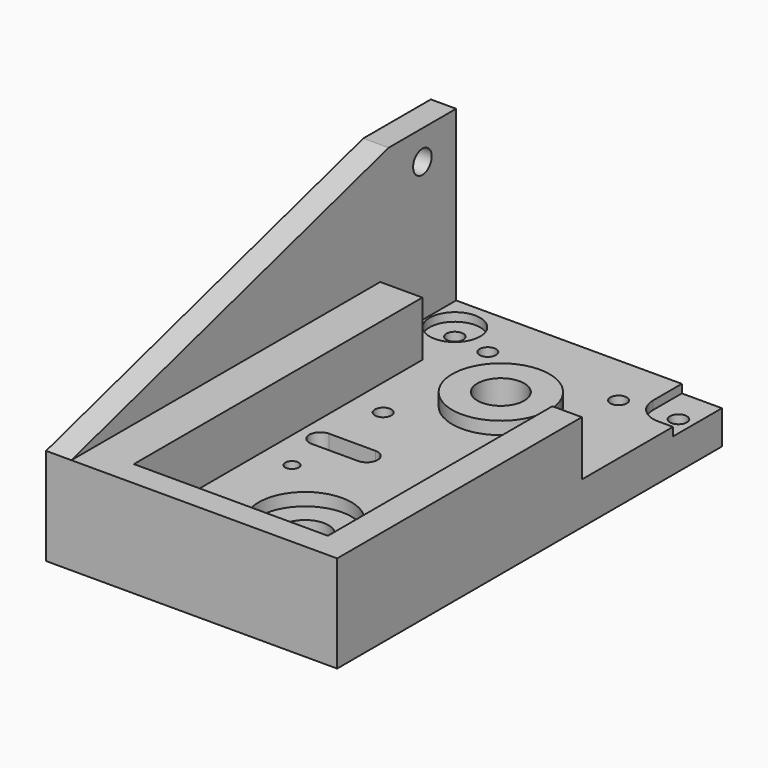
from build123d import *

# Parameters (mm, degrees)
SKETCH_W        = 63
SKETCH_H        = 114
SKETCH_R        = 1.95
SKETCH_R_2      = 5.525
SKETCH_R_3      = 1.6
PAD_DEPTH       = 10
SKETCH004_R     = 11.525
PAD001_DEPTH    = 3
SKETCH003_R     = 5.55
POCKET_DEPTH    = 13.001
SKETCH006_R     = 11
POCKET001_DEPTH = 3
SKETCH007_R     = 3.5
POCKET002_DEPTH = 0.01
POCKET003_DEPTH = 10.001
SKETCH009_R     = 1.7
POCKET004_DEPTH = 12
PAD002_DEPTH    = 13
PAD003_DEPTH    = 6
SKETCH023_R     = 2.75
POCKET005_DEPTH = 9
SKETCH025_R     = 2
POCKET006_DEPTH = 16
SKETCH026_R     = 6
POCKET007_DEPTH = 2


with BuildPart() as part:
    # Sketch → Pad (new body)
    with BuildSketch(Plane.XY):
        with Locations((-1.5, -29)):
            Rectangle(SKETCH_W, SKETCH_H)
        with Locations((-15.5, 15.5)):
            Circle(SKETCH_R, mode=Mode.SUBTRACT)
        with Locations((15.5, 15.5)):
            Circle(SKETCH_R, mode=Mode.SUBTRACT)
        with Locations((-15.5, -15.5)):
            Circle(SKETCH_R, mode=Mode.SUBTRACT)
        with Locations((15.5, -15.5)):
            Circle(SKETCH_R, mode=Mode.SUBTRACT)
        with Locations((0, -58)):
            Circle(SKETCH_R_2, mode=Mode.SUBTRACT)
        with Locations((-15.5, -42.5)):
            Circle(SKETCH_R_3, mode=Mode.SUBTRACT)
        with Locations((15.5, -42.5)):
            Circle(SKETCH_R_3, mode=Mode.SUBTRACT)
        with Locations((-15.5, -73.5)):
            Circle(SKETCH_R_3, mode=Mode.SUBTRACT)
        with Locations((15.5, -73.5)):
            Circle(SKETCH_R_3, mode=Mode.SUBTRACT)
    extrude(amount=PAD_DEPTH)

    # Sketch004 (on Face15 of Pad) → Pad001 (join)
    with BuildSketch(Plane.XY.offset(10)):
        Circle(SKETCH004_R)
    extrude(amount=PAD001_DEPTH)

    # Sketch003 (on Face17 of Pad001) → Pocket (cut, through all)
    with BuildSketch(Plane.XY.offset(13)):
        Circle(SKETCH003_R)
    extrude(amount=-POCKET_DEPTH, mode=Mode.SUBTRACT)

    # Sketch006 (on Face5 of Pocket) → Pocket001 (cut)
    with BuildSketch(Plane.XY.offset(10)):
        with Locations((0, -58)):
            Circle(SKETCH006_R)
    extrude(amount=-POCKET001_DEPTH, mode=Mode.SUBTRACT)

    # Sketch007 (on Face4 of Pocket001) → Pocket002 (cut)
    with BuildSketch(Plane(origin=(0, 0, 0), x_dir=(1, 0, 0), z_dir=(0, 0, -1))):
        with Locations((-15.5, 73.5)):
            Circle(SKETCH007_R)
        with Locations((15.5, 73.5)):
            Circle(SKETCH007_R)
        with Locations((15.5, 42.5)):
            Circle(SKETCH007_R)
        with Locations((-15.5, 42.5)):
            Circle(SKETCH007_R)
    extrude(amount=-POCKET002_DEPTH, mode=Mode.SUBTRACT)

    # Sketch008 (on Face5 of Pocket002) → Pocket003 (cut, through all)
    with BuildSketch(Plane.XY.offset(10)):
        with BuildLine():
            ThreePointArc((-18, -28.4), (-20.6, -31), (-18, -33.6))
            Line((-18, -33.6), (-7, -33.6))
            ThreePointArc((-7, -33.6), (-4.4, -31), (-7, -28.4))
            Line((-18, -28.4), (-7, -28.4))
        make_face()
    extrude(amount=-POCKET003_DEPTH, mode=Mode.SUBTRACT)

    # Sketch009 (on Face2 of Pocket003) → Pocket004 (cut)
    with BuildSketch(Plane(origin=(-33, 0, 0), x_dir=(0, -1, 0), z_dir=(-1, 0, 0))):
        with Locations((31, 5)):
            Circle(SKETCH009_R)
    extrude(amount=-POCKET004_DEPTH, mode=Mode.SUBTRACT)

    # Sketch014 (on Face5 of Pocket004) → Pad002 (join)
    with BuildSketch(Plane.XY.offset(10)):
        Polygon((-33, 5.5), (-23, 5.5), (-23, -80), (23, -80), (23, -13.5), (30, -13.5), (30, -86), (-33, -86), align=None)
    extrude(amount=PAD002_DEPTH)

    # Sketch022 (on Face2 of Pad002) → Pad003 (join)
    with BuildSketch(Plane(origin=(-33, 0, 0), x_dir=(0, -1, 0), z_dir=(-1, 0, 0))):
        Polygon((-28, 0), (-28, 50), (-8, 50), (86, 23), (86, 0), align=None)
    extrude(amount=PAD003_DEPTH)

    # Sketch023 (on Face9 of Pad003) → Pocket005 (cut)
    with BuildSketch(Plane(origin=(-39, 0, 0), x_dir=(0, -1, 0), z_dir=(-1, 0, 0))):
        with Locations((-18, 43)):
            Circle(SKETCH023_R)
    extrude(amount=-POCKET005_DEPTH, mode=Mode.SUBTRACT)

    # Sketch025 (on Face4 of Pocket005) → Pocket006 (cut)
    with BuildSketch(Plane(origin=(0, 0, 0), x_dir=(1, 0, 0), z_dir=(0, 0, -1))):
        with Locations((26.5, -19.5)):
            Circle(SKETCH025_R)
        with Locations((-26.5, -19.5)):
            Circle(SKETCH025_R)
    extrude(amount=-POCKET006_DEPTH, mode=Mode.SUBTRACT)

    # Sketch026 (on Face5 of Pocket006) → Pocket007 (cut)
    with BuildSketch(Plane.XY.offset(10)):
        with Locations((-26.5, 19.5)):
            Circle(SKETCH026_R)
        with BuildLine():
            ThreePointArc((20.5, 19.5), (22.257359, 15.257359), (26.5, 13.5))
            Line((26.5, 13.5), (46.5, 13.5))
            Line((20.5, 46.38), (46.5, 13.5))
            Line((20.5, 46.38), (20.5, 19.5))
        make_face()
    extrude(amount=-POCKET007_DEPTH, mode=Mode.SUBTRACT)


solid = part.part
